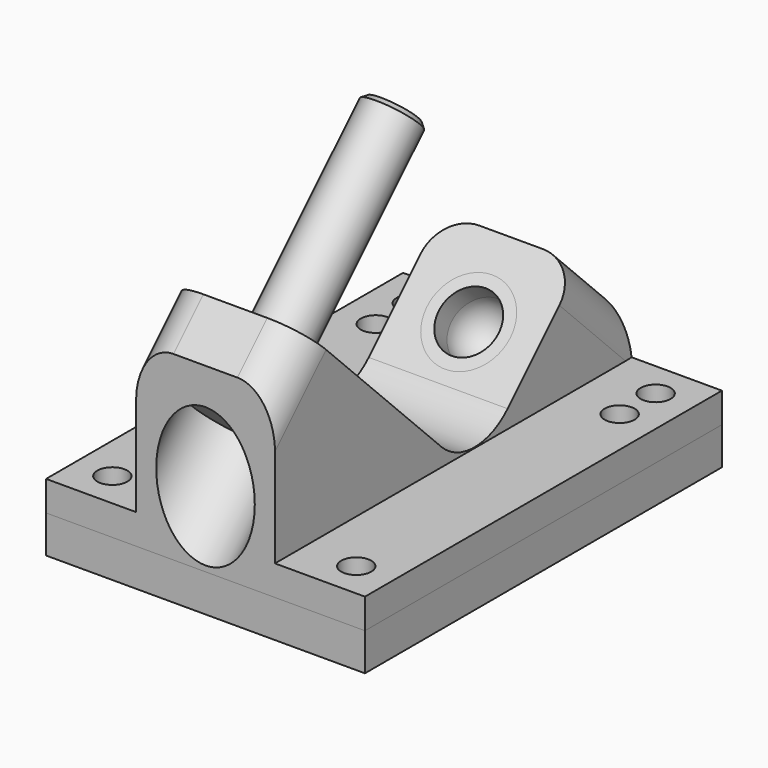
from build123d import *

# Parameters (mm, degrees)
F1_DEPTH  = 27.0002
F2_R      = 9.906
F3_W      = 75.565
F3_H      = 31.9594877579
F4_DEPTH  = 15.24
F5_R      = 2.54
F6_DEPTH  = 5.081
F8_R      = 6.35
F13_SIZE  = 0.762
F18_W     = 54.0004
F18_H     = 75.565
F19_DEPTH = 6.35


with BuildPart() as f1:
    # F0 (on Right) → F1 (new body)
    with BuildSketch(Plane.YZ):
        Polygon((0, 30.7152561211), (0, 0), (75.565, 0), (75.565, 12.7), (64.6958964237, 23.5691035763), (42.2452561211, 1.1184632736), (6.3242316368, 37.0394877579), align=None)
    extrude(amount=F1_DEPTH)

    # F2
    f2_edges = [f1.edges().sort_by_distance(p)[0] for p in [
        (13.5001, 42.245256, 1.118463),
    ]]
    fillet(f2_edges, radius=F2_R)

    # F3 (on face) → F4 (cut)
    with BuildSketch(Plane.YZ.offset(27.0002)):
        with Locations((37.7825, 21.0597438789)):
            Rectangle(F3_W, F3_H)
    extrude(amount=-F4_DEPTH, mode=Mode.SUBTRACT)

    # F5 (on face) → F6 (cut, through all)
    with BuildSketch(Plane.XY.offset(5.08)):
        with Locations((20.6502, 69.469)):
            Circle(F5_R)
        with Locations((20.6502, 61.849)):
            Circle(F5_R)
        with Locations((20.6502, 6.096)):
            Circle(F5_R)
    extrude(amount=-F6_DEPTH, mode=Mode.SUBTRACT)

    # F7: F1 across face


with BuildPart() as f1_1:
    add(f1.part)
    add(f1.part.mirror(Plane(origin=(0, 31.4337361572, 11.6287579026), x_dir=(0, 1, 0), z_dir=(-1, 0, 0))))

    # F8
    f8_edges = [f1_1.edges().sort_by_distance(p)[0] for p in [
        (11.7602, 3.162116, 33.877372),
        (-11.7602, 3.162116, 33.877372),
        (11.7602, 70.130448, 18.134552),
        (-11.7602, 70.130448, 18.134552),
    ]]
    fillet(f8_edges, radius=F8_R)

    # F9 (on Right) → F10 (revolve, cut)
    with BuildSketch(Plane.YZ):
        Polygon((15.3044877579, 28.0592316368), (11.9368917125, 31.4268276822), (5.2016996217, 24.6916355914), (2.6692673955, 27.2240678175), (-18.6547721505, 5.9000282715), (-12.7547438789, 0), align=None)
    revolve(axis=Axis((0, 22.0396798487, 34.7944237276), (0, 0.7071067812, 0.7071067812)), mode=Mode.SUBTRACT)

    # F14 (on Right) → F15 (revolve, cut)
    with BuildSketch(Plane.YZ):
        Polygon((69.6965536408, 10.6092485512), (60.7162975197, 19.5895046723), (55.7156403027, 14.5888474552), (64.680101436, 5.6243863219), align=None)
    revolve(axis=Axis((0, 46.7274866877, 23.5770010701), (0, 0.7071067812, -0.7071067812)), mode=Mode.SUBTRACT)


with BuildPart() as f12:
    # F11 (on Right) → F12 (revolve)
    with BuildSketch(Plane.YZ):
        Polygon((11.9368917125, 31.4268276822), (5.2016996217, 24.6916355914), (2.9566355914, 26.9366996217), (1.1605843672, 25.1406483974), (6.7732444428, 19.5279883218), (40.0001920908, 52.7549359697), (36.6325960454, 56.1225320151), align=None)
    revolve(axis=Axis((0, 2.5810948587, 15.3358387377), (0, -0.7071067812, -0.7071067812)))

    # F13
    f13_edges = [f12.edges().sort_by_distance(p)[0] for p in [
        (0, 43.367788, 49.38734),
    ]]
    chamfer(f13_edges, length=F13_SIZE)


with BuildPart() as f17:
    # F16 (on Right) → F17 (revolve)
    with BuildSketch(Plane.YZ):
        with BuildLine():
            ThreePointArc((62.0018195874, 15.4868730673), (63.489717139, 11.8947706189), (62.0018195874, 8.3026681704))
            Line((62.0018195874, 8.3026681704), (64.680101436, 5.6243863219))
            Line((64.680101436, 5.6243863219), (69.6965536408, 10.6092485512))
            Line((69.6965536408, 10.6092485512), (60.7162975197, 19.5895046723))
            Line((60.7162975197, 19.5895046723), (59.3077427511, 18.1809499036))
            Line((59.3077427511, 18.1809499036), (62.0018195874, 15.4868730673))
        make_face()
    revolve(axis=Axis((0, 46.7274866877, 23.5770010701), (0, 0.7071067812, -0.7071067812)))


with BuildPart() as f19:
    # F18 (on face) → F19 (new body)
    with BuildSketch(Plane(origin=(0, 0, 0), x_dir=(1, 0, 0), z_dir=(0, 0, -1))):
        with Locations((0, -37.7825)):
            Rectangle(F18_W, F18_H)
    extrude(amount=F19_DEPTH)


solid = Compound([f1_1.part, f12.part, f17.part, f19.part])
